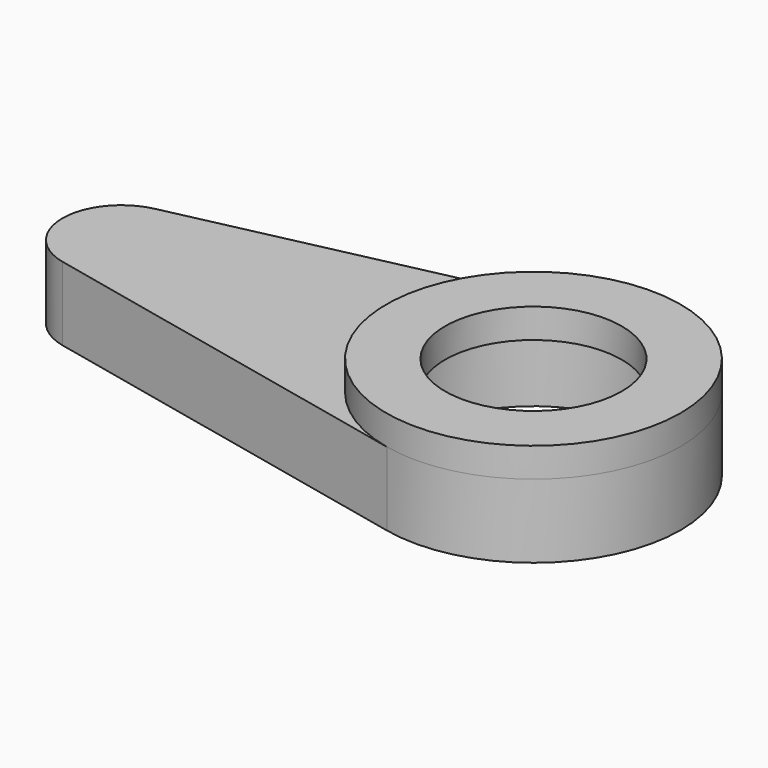
from build123d import *

# Parameters (mm, degrees)
SKETCH_R      = 8
PAD_DEPTH     = 5
SKETCH001_R   = 10
SKETCH001_R_2 = 6
PAD001_DEPTH  = 2


with BuildPart() as part:
    # Sketch → Pad (new body)
    with BuildSketch(Plane.XY):
        with BuildLine():
            ThreePointArc((-2.142857, -9.76771), (10, 0), (-2.142857, 9.76771))
            Line((-28.857143, 3.907084), (-2.142857, 9.76771))
            ThreePointArc((-28.857143, 3.907084), (-32, 0), (-28.857143, -3.907084))
            Line((-2.142857, -9.76771), (-28.857143, -3.907084))
        make_face()
        Circle(SKETCH_R, mode=Mode.SUBTRACT)
    extrude(amount=PAD_DEPTH)

    # Sketch001 (on Face7 of Pad) → Pad001 (join)
    with BuildSketch(Plane.XY.offset(5)):
        Circle(SKETCH001_R)
        Circle(SKETCH001_R_2, mode=Mode.SUBTRACT)
    extrude(amount=PAD001_DEPTH)


solid = part.part
